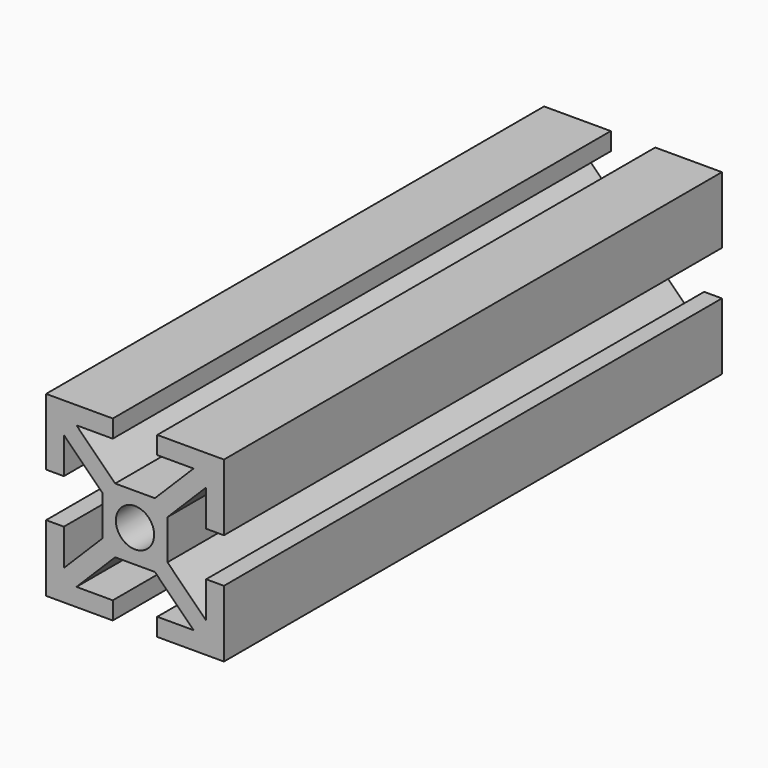
from build123d import *

# Parameters (mm, degrees)
F1_DEPTH      = 35
F1_DEPTH_BACK = 35


with BuildPart() as f1:
    # F0 (on Front) → F1 (new body, two sides)
    with BuildSketch(Plane.XZ) as f1_sk:
        Polygon((-2.238045, 9.768403), (-9.738045, 9.768403), (-9.738045, 2.268403), (-7.738045, 2.268403), (-7.738045, 6.35419), (-3.388045, 2.00419), (-3.388045, -0.231597), (-3.388045, -2.467383), (-7.738045, -6.817383), (-7.738045, -2.731597), (-9.738045, -2.731597), (-9.738045, -10.231597), (-2.238045, -10.231597), (-2.238045, -8.231597), (-6.323832, -8.231597), (-1.973832, -3.881597), (2.497741, -3.881597), (6.847741, -8.231597), (2.761955, -8.231597), (2.761955, -10.231597), (10.261955, -10.231597), (10.261955, -2.731597), (8.261955, -2.731597), (8.261955, -6.817383), (3.911955, -2.467383), (3.911955, -0.231597), (3.911955, 2.00419), (8.261955, 6.35419), (8.261955, 2.268403), (10.261955, 2.268403), (10.261955, 9.768403), (2.761955, 9.768403), (2.761955, 7.768403), (6.847741, 7.768403), (2.497741, 3.418403), (-1.973832, 3.418403), (-6.323832, 7.768403), (-2.238045, 7.768403), align=None)
        with BuildLine():
            ThreePointArc((-1.888045, -0.231597), (0.261955, 1.918403), (2.411955, -0.231597))
            ThreePointArc((2.411955, -0.231597), (0.261955, -2.381597), (-1.888045, -0.231597))
        make_face(mode=Mode.SUBTRACT)
    extrude(amount=F1_DEPTH)
    extrude(f1_sk.sketch, amount=-F1_DEPTH_BACK)


solid = f1.part
